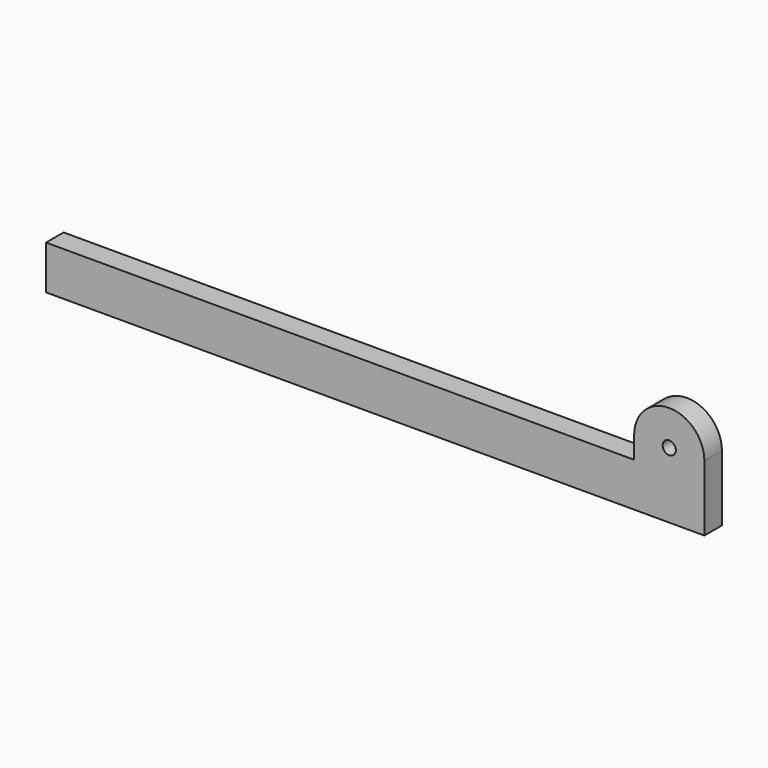
from build123d import *

# Parameters (mm, degrees)
F0_R     = 1.5
F1_DEPTH = 5


with BuildPart() as f1:
    # F0 (on Front) → F1 (new body)
    with BuildSketch(Plane.XZ):
        with BuildLine():
            Line((61.089201, 10), (77.089201, 10))
            Line((77.089201, 10), (77.089201, 15))
            ThreePointArc((77.089201, 15), (69.089201, 23), (61.089201, 15))
            Line((61.089201, 15), (61.089201, 10))
        make_face()
        with Locations((69.089201, 15)):
            Circle(F0_R, mode=Mode.SUBTRACT)
        Polygon((-72.910799, 10), (-72.910799, 0), (77.089201, 0), (77.089201, 10), (61.089201, 10), align=None)
    extrude(amount=F1_DEPTH)


solid = f1.part
